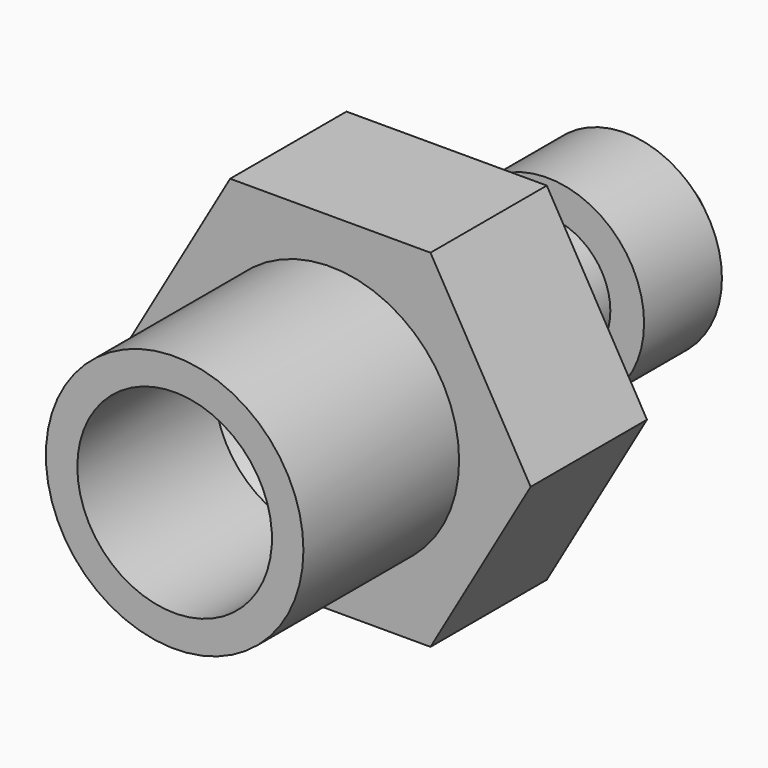
from build123d import *

# Parameters (mm, degrees)
F0_R            = 5.5
F1_DEPTH        = 11
F1_TAPER        = -46
F2_R            = 16.8908334517
F3_DEPTH        = 17
F4_R            = 11
F5_DEPTH        = 22
F6_R            = 11
F7_DEPTH        = 25.4
F8_R            = 22.5
F8_R_2          = 5.5
F9_DEPTH        = 34
F11_D           = 34
F11_DEPTH       = 30
F11_TIP         = 10.2146305235
F12_D           = 20
F12_DEPTH       = 44
F12_CSINK_D     = 34
F12_CSINK_ANGLE = 46
F12_TIP         = 6.0086061903
F13_D           = 11
F13_DEPTH       = 65
F13_START       = 46.7038728
F13_TIP         = 3.3047334047


with BuildPart() as f1:
    # F0 (on Front) → F1 (new body)
    with BuildSketch(Plane.XZ):
        Circle(F0_R)
    extrude(amount=F1_DEPTH, taper=F1_TAPER)

    # F2 (on face) → F3 (join)
    with BuildSketch(Plane.XZ.offset(11)):
        Circle(F2_R)
    extrude(amount=F3_DEPTH)

    # F4 (on face) → F5 (join)
    with BuildSketch(Plane.XZ.offset(28)):
        Circle(F4_R)
    extrude(amount=F5_DEPTH)

    # F6 (on face) → F7 (join)
    with BuildSketch(Plane.XZ.offset(50)):
        Polygon((17.5, -30.3108891325), (35, 0), (17.5, 30.3108891325), (-17.5, 30.3108891325), (-35, 0), (-17.5, -30.3108891325), align=None)
        Circle(F6_R, mode=Mode.SUBTRACT)
        Circle(F6_R)
    extrude(amount=F7_DEPTH)

    # F8 (on face) → F9 (join)
    with BuildSketch(Plane.XZ.offset(75.4)):
        Circle(F8_R)
        Circle(F8_R_2, mode=Mode.SUBTRACT)
        Circle(F8_R_2)
    extrude(amount=F9_DEPTH)

    # F11
    with Locations(Plane.XZ.offset(109.4)):
        with Locations((0, 0)):
            Hole(F11_D / 2, depth=F11_DEPTH)
            with Locations((0, 0, -(F11_DEPTH + F11_TIP / 2))):  # 118° drill point
                Cone(0, F11_D / 2, F11_TIP, mode=Mode.SUBTRACT)

    # F12
    with Locations(Plane.XZ.offset(109.4)):
        with Locations((0, 0)):
            CounterSinkHole(F12_D / 2, F12_CSINK_D / 2, depth=F12_DEPTH, counter_sink_angle=F12_CSINK_ANGLE)
            with Locations((0, 0, -(F12_DEPTH + F12_TIP / 2))):  # 118° drill point
                Cone(0, F12_D / 2, F12_TIP, mode=Mode.SUBTRACT)

    # F13
    # its depths count from where the whole tool has entered the part; down to there all is cleared
    with Locations(Plane.XZ.offset(109.4).offset(-F13_START)):
        with Locations((0, 0)):
            Hole(F13_D / 2, depth=F13_DEPTH)
            with Locations((0, 0, -(F13_DEPTH + F13_TIP / 2))):  # 118° drill point
                Cone(0, F13_D / 2, F13_TIP, mode=Mode.SUBTRACT)


solid = f1.part
